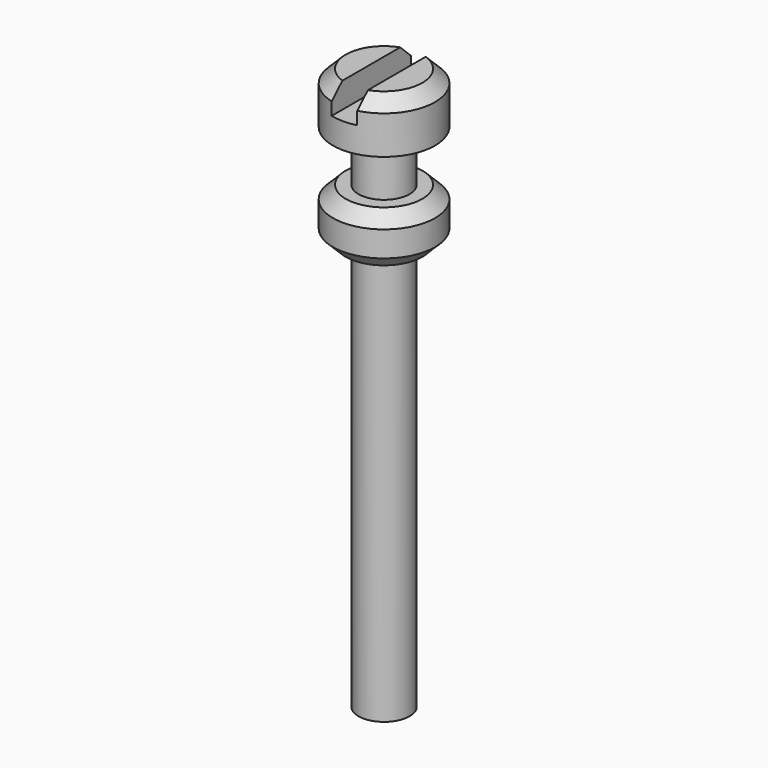
from build123d import *

# Parameters (mm, degrees)
F0_R     = 1.5875
F1_DEPTH = 25.4
F2_R     = 3.175
F3_DEPTH = 3.175
F4_R     = 1.5875
F5_DEPTH = 3.175
F6_R     = 3.175
F7_DEPTH = 3.175
F8_W     = 1.5875
F8_H     = 6.35
F9_DEPTH = 1.5875
F10_SIZE = 0.79375


with BuildPart() as f1:
    # F0 (on Top) → F1 (new body)
    with BuildSketch(Plane.XY):
        Circle(F0_R)
    extrude(amount=F1_DEPTH)

    # F2 (on face) → F3 (join)
    with BuildSketch(Plane.XY.offset(25.4)):
        Circle(F2_R)
    extrude(amount=F3_DEPTH)

    # F4 (on face) → F5 (join)
    with BuildSketch(Plane.XY.offset(28.575)):
        Circle(F4_R)
    extrude(amount=F5_DEPTH)

    # F6 (on face) → F7 (join)
    with BuildSketch(Plane.XY.offset(31.75)):
        Circle(F6_R)
    extrude(amount=F7_DEPTH)

    # F8 (on face) → F9 (cut)
    with BuildSketch(Plane.XY.offset(34.925)):
        Rectangle(F8_W, F8_H)
    extrude(amount=-F9_DEPTH, mode=Mode.SUBTRACT)

    # F10
    f10_edges = [f1.edges().sort_by_distance(p)[0] for p in [
        (-3.175, 0, 34.925),
        (2.510058, 1.944282, 34.925),
        (2.510058, -1.944282, 34.925),
        (-3.175, 0, 28.575),
        (-3.175, 0, 25.4),
    ]]
    chamfer(f10_edges, length=F10_SIZE)


solid = f1.part
